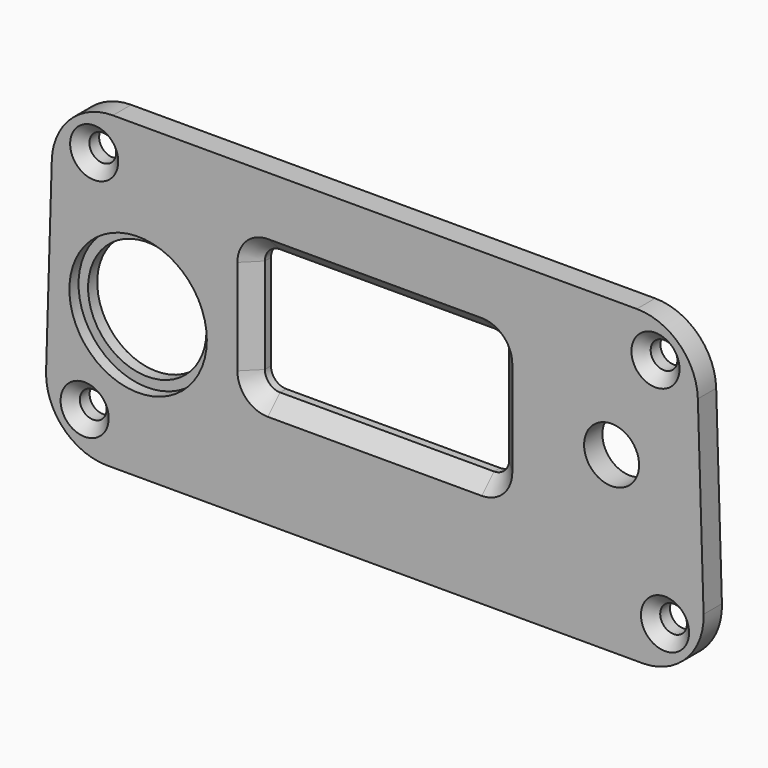
from build123d import *

# Parameters (mm, degrees)
SKETCH033_R     = 1.75
SKETCH033_R_2   = 7.75
SKETCH033_R_3   = 3.6
PAD001_DEPTH    = 3
CHAMFER001_SIZE = 2
CHAMFER002_SIZE = 1.4
SKETCH035_R     = 9
POCKET008_DEPTH = 1.501
POCKET009_DEPTH = 1


with BuildPart() as part:
    # Sketch033 → Pad001 (new body)
    with BuildSketch(Plane.XZ):
        with BuildLine():
            Line((-34.303718, 43.4), (34.303711, 43.4))
            ThreePointArc((42.299997, 35.643765), (39.873715, 41.142392), (34.303711, 43.4))
            Line((42.299997, 35.643765), (43.05, 11.043791))
            ThreePointArc((35.053716, 2.8), (40.796116, 5.230006), (43.05, 11.043791))
            Line((35.053716, 2.8), (-35.053716, 2.8))
            ThreePointArc((-43.05, 11.043802), (-40.79612, 5.23001), (-35.053716, 2.8))
            Line((-43.05, 11.043802), (-42.300003, 35.643776))
            ThreePointArc((-34.303718, 43.4), (-39.873717, 41.142396), (-42.300003, 35.643776))
        make_face()
        with Locations((-36.75, 38.3)):
            Circle(SKETCH033_R, mode=Mode.SUBTRACT)
        with Locations((36.75, 38.3)):
            Circle(SKETCH033_R, mode=Mode.SUBTRACT)
        with Locations((-38, 8.3)):
            Circle(SKETCH033_R, mode=Mode.SUBTRACT)
        with Locations((38, 8.3)):
            Circle(SKETCH033_R, mode=Mode.SUBTRACT)
        with Locations((-31, 21.5)):
            Circle(SKETCH033_R_2, mode=Mode.SUBTRACT)
        with Locations((31, 25.5)):
            Circle(SKETCH033_R_3, mode=Mode.SUBTRACT)
        with BuildLine():
            Line((-14, 33.75), (14, 33.75))
            ThreePointArc((16, 31.75), (15.414214, 33.164214), (14, 33.75))
            Line((16, 31.75), (16, 19.25))
            ThreePointArc((14, 17.25), (15.414214, 17.835786), (16, 19.25))
            Line((14, 17.25), (-14, 17.25))
            ThreePointArc((-16, 19.25), (-15.414214, 17.835786), (-14, 17.25))
            Line((-16, 19.25), (-16, 31.75))
            ThreePointArc((-14, 33.75), (-15.414214, 33.164214), (-16, 31.75))
        make_face(mode=Mode.SUBTRACT)
    extrude(amount=PAD001_DEPTH)

    # Chamfer001
    chamfer001_edges = [part.edges().sort_by_distance(p)[0] for p in [
        (0, -3, 33.75),
    ]]
    chamfer(chamfer001_edges, length=CHAMFER001_SIZE)

    # Chamfer002
    chamfer002_edges = [part.edges().sort_by_distance(p)[0] for p in [
        (-39.75, -3, 8.3),
        (-38.5, -3, 38.3),
        (36.25, -3, 8.3),
        (35, -3, 38.3),
    ]]
    chamfer(chamfer002_edges, length=CHAMFER002_SIZE)

    # Sketch035 → Pocket008 (cut, through all)
    with BuildSketch(Plane.XZ.offset(1.5)):
        with Locations((-31, 21.5)):
            Circle(SKETCH035_R)
    extrude(amount=POCKET008_DEPTH, mode=Mode.SUBTRACT)

    # Sketch036 → Pocket009 (cut)
    with BuildSketch(Plane.XZ):
        with BuildLine():
            ThreePointArc((30, 20.25), (29.25, 19.5), (30, 18.75))
            Line((30, 18.75), (32, 18.75))
            ThreePointArc((32, 18.75), (32.75, 19.5), (32, 20.25))
            Line((30, 20.25), (32, 20.25))
        make_face()
    extrude(amount=POCKET009_DEPTH, mode=Mode.SUBTRACT)


solid = part.part
